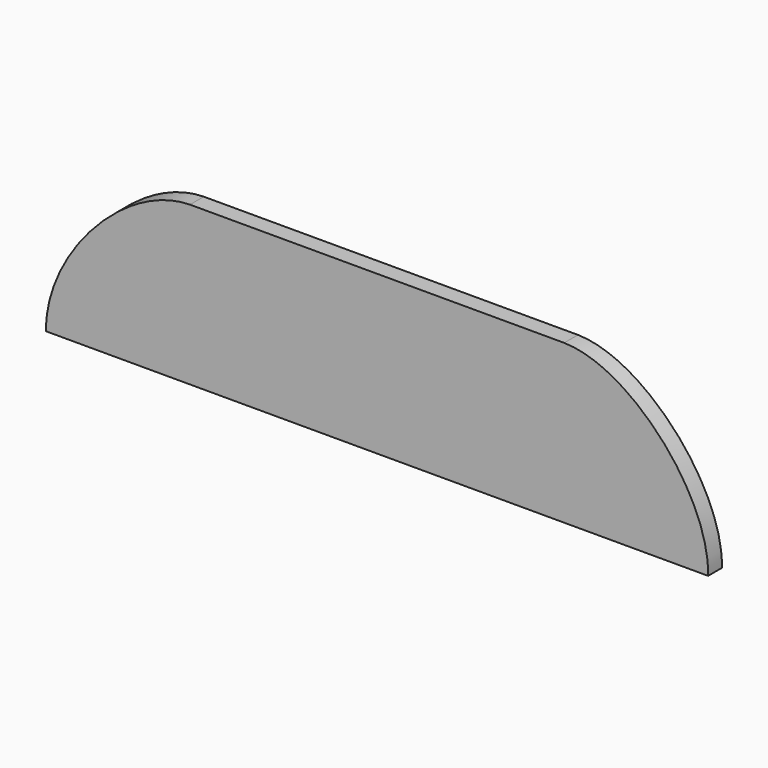
from build123d import *

# Parameters (mm, degrees)
F1_DEPTH = 6


with BuildPart() as f1:
    # F0 (on Front) → F1 (new body)
    with BuildSketch(Plane.XZ):
        with BuildLine():
            Line((-115, 0), (0, 0))
            Line((0, 0), (115, 0))
            add(Edge.make_bspline(
                [(65, 55), (87.719597, 54.714933), (115.516022, 24.682017), (115, 0)],
                knots=[0, 0, 0, 0, 74.330344, 74.330344, 74.330344, 74.330344], degree=3))
            Line((65, 55), (0, 55))
            Line((0, 55), (-65, 55))
            add(Edge.make_bspline(
                [(-65, 55), (-87.719597, 54.714933), (-115.516022, 24.682017), (-115, 0)],
                knots=[0, 0, 0, 0, 74.330344, 74.330344, 74.330344, 74.330344], degree=3))
        make_face()
    extrude(amount=F1_DEPTH)


solid = f1.part
